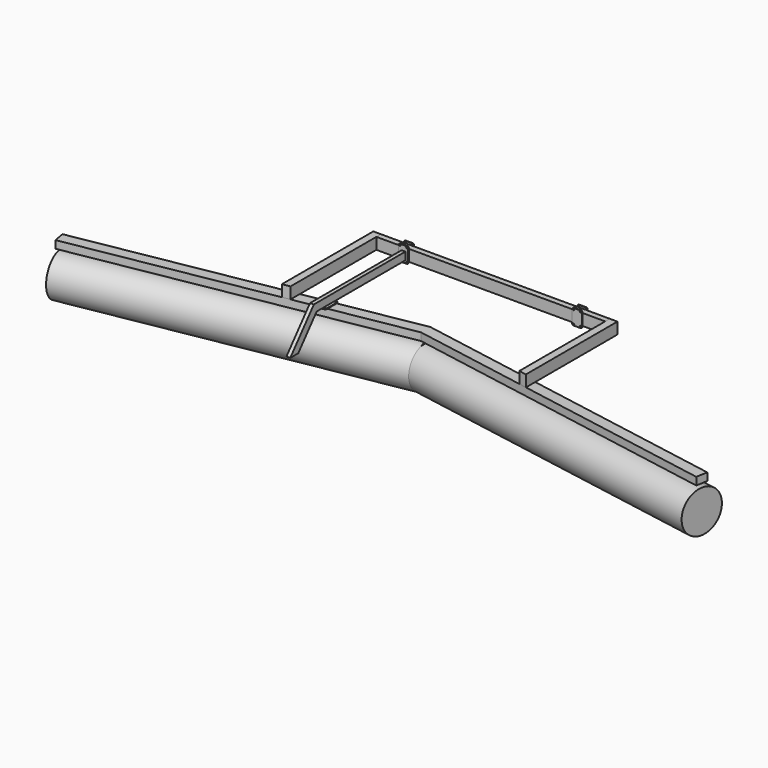
from build123d import *

# Parameters (mm, degrees)
F1_DEPTH  = 101.6
F3_DEPTH  = 152.4
F5_W      = 76.2
F5_H      = 152.4
F6_DEPTH  = 3048
F7_R      = 7.9375
F8_DEPTH  = 9.525
F12_R     = 7.9375
F13_DEPTH = 9.525
F14_W     = 50.8
F14_H     = 101.6
F15_DEPTH = 1524
F17_DEPTH = 50.8
F19_DEPTH = 50.8
F21_DEPTH = 4333.0284382389


with BuildPart() as f1:
    # F0 (on Top) → F1 (new body)
    with BuildSketch(Plane.XY):
        Polygon((-4293.6639822764, -602.3377905201), (-4267.2, -752.4224920792), (0, 0), (4267.2, -752.4224920792), (4293.6639822765, -602.3377905201), (0, 154.7510156514), align=None)
    extrude(amount=F1_DEPTH)

    # F12 (on face) → F13 (join)
    with BuildSketch(Plane.XY.offset(101.6)):
        with BuildLine():
            ThreePointArc((-1206.0816648205, -30.509897106), (-1215.4859555345, -35.9394668813), (-1219.2, -46.143720185))
            Line((-1219.2, -46.143720185), (-1219.2, -223.4625922856))
            ThreePointArc((-1219.2, -223.4625922856), (-1213.5292533038, -235.6235478201), (-1200.5683351795, -239.0964153647))
            Line((-1200.5683351795, -239.0964153647), (-1105.3183351795, -222.3012704522))
            ThreePointArc((-1105.3183351795, -222.3012704522), (-1095.9140444655, -216.8717006769), (-1092.2, -206.6674473731))
            Line((-1092.2, -206.6674473731), (-1092.2, -29.3485752726))
            ThreePointArc((-1092.2, -29.3485752726), (-1097.8707466962, -17.1876197381), (-1110.8316648205, -13.7147521935))
            Line((-1110.8316648205, -13.7147521935), (-1206.0816648205, -30.509897106))
        make_face()
        with Locations((-1200.15, -219.6787746291)):
            Circle(F12_R, mode=Mode.SUBTRACT)
        with Locations((-1111.25, -204.0033060441)):
            Circle(F12_R, mode=Mode.SUBTRACT)
        with Locations((-1200.15, -48.807861514)):
            Circle(F12_R, mode=Mode.SUBTRACT)
        with Locations((-1111.25, -33.1323929291)):
            Circle(F12_R, mode=Mode.SUBTRACT)
    extrude(amount=F13_DEPTH)


with BuildPart() as f3:
    # F2 (on face) → F3 (new body)
    with BuildSketch(Plane.XY.offset(101.6)):
        Polygon((1524, 1237.3628601603), (1524, -113.9713029483), (1625.6, -131.8861241883), (1625.6, 1237.3628601603), align=None)
        Polygon((1524, -113.9713029483), (1524, -268.7223185997), (1625.6, -286.6371398397), (1625.6, -131.8861241883), align=None)
    extrude(amount=F3_DEPTH)


with BuildPart() as f4_1:
    # F4: instance of F3
    add(f3.part.mirror(Plane.YZ))


with BuildPart() as f6:
    # F5 (on face) → F6 (new body, through all)
    with BuildSketch(Plane.YZ.offset(-1524)):
        with Locations((1199.2628601603, 177.8)):
            Rectangle(F5_W, F5_H)
    extrude(amount=F6_DEPTH)


with BuildPart() as f8:
    # F7 (on face) → F8 (new body)
    with BuildSketch(Plane.XZ.offset(-1161.1628601603)):
        with BuildLine():
            Line((-1203.325, 74.6125), (-1108.075, 74.6125))
            ThreePointArc((-1108.075, 74.6125), (-1096.8496798487, 79.2621798487), (-1092.2, 90.4875))
            Line((-1092.2, 90.4875), (-1092.2, 265.1125))
            ThreePointArc((-1092.2, 265.1125), (-1096.8496798487, 276.3378201513), (-1108.075, 280.9875))
            Line((-1108.075, 280.9875), (-1203.325, 280.9875))
            ThreePointArc((-1203.325, 280.9875), (-1214.5503201513, 276.3378201513), (-1219.2, 265.1125))
            Line((-1219.2, 265.1125), (-1219.2, 90.4875))
            ThreePointArc((-1219.2, 90.4875), (-1214.5503201513, 79.2621798487), (-1203.325, 74.6125))
        make_face()
        with Locations((-1200.15, 93.6625)):
            Circle(F7_R, mode=Mode.SUBTRACT)
        with Locations((-1111.25, 93.6625)):
            Circle(F7_R, mode=Mode.SUBTRACT)
        with Locations((-1200.15, 261.9375)):
            Circle(F7_R, mode=Mode.SUBTRACT)
        with Locations((-1111.25, 261.9375)):
            Circle(F7_R, mode=Mode.SUBTRACT)
    extrude(amount=F8_DEPTH)


with BuildPart() as f10_1:
    # F10: instance of F8
    add(f8.part.mirror(Plane(origin=(0, 1199.2628601603, 177.8), x_dir=(1, 0, 0), z_dir=(0, -1, 0))))


with BuildPart() as f11_1:
    # F11: instance of F8
    add(f8.part.mirror(Plane.YZ))


with BuildPart() as f11_2:
    # F11: instance of F10_1
    add(f10_1.part.mirror(Plane.YZ))


with BuildPart() as f15:
    # F14 (on face) → F15 (new body)
    with BuildSketch(Plane.XZ.offset(-1151.6378601603)):
        with Locations((-1155.7, 161.6075)):
            Rectangle(F14_W, F14_H)
    extrude(amount=F15_DEPTH)

    # F16 (on face) → F17 (cut, through all)
    with BuildSketch(Plane(origin=(-1181.1, 0, 0), x_dir=(0, -1, 0), z_dir=(-1, 0, 0))):
        Polygon((372.3621398397, 110.8075), (372.3621398397, 212.4075), (324.9852817711, 110.8075), align=None)
    extrude(amount=-F17_DEPTH, mode=Mode.SUBTRACT)

    # F18 (on face) → F19 (join, through all)
    with BuildSketch(Plane(origin=(-1181.1, 0, 0), x_dir=(0, -1, 0), z_dir=(-1, 0, 0))):
        Polygon((372.3621398397, 212.4075), (324.9852817711, 110.8075), (631.5760861084, -254.5731925253), (764.2054667046, -254.5731925253), align=None)
    extrude(amount=-F19_DEPTH)


with BuildPart() as f21:
    # F20 (on face) → F21 (new body, through all)
    with BuildSketch(Plane(origin=(-4267.2, -752.4224920792, 0), x_dir=(0.1736481777, -0.984807753, 0), z_dir=(-0.984807753, -0.1736481777, 0))):
        with BuildLine():
            ThreePointArc((203.2, -330.2), (121.3656346635, -132.6343653365), (-76.2, -50.8))
            Line((-76.2, -50.8), (-76.2, -609.6))
            ThreePointArc((-76.2, -609.6), (121.3656346635, -527.7656346635), (203.2, -330.2))
        make_face()
        with BuildLine():
            Line((-76.2, -609.6), (-76.2, -50.8))
            ThreePointArc((-76.2, -50.8), (-355.6, -330.2), (-76.2, -609.6))
        make_face()
    extrude(amount=-F21_DEPTH)

    # F22: F21 across plane


with BuildPart() as f21_1:
    add(f21.part)
    add(f21.part.mirror(Plane.YZ))


solid = Compound([f1.part, f3.part, f4_1.part, f6.part, f8.part, f10_1.part, f11_1.part, f11_2.part, f15.part, f21_1.part])
